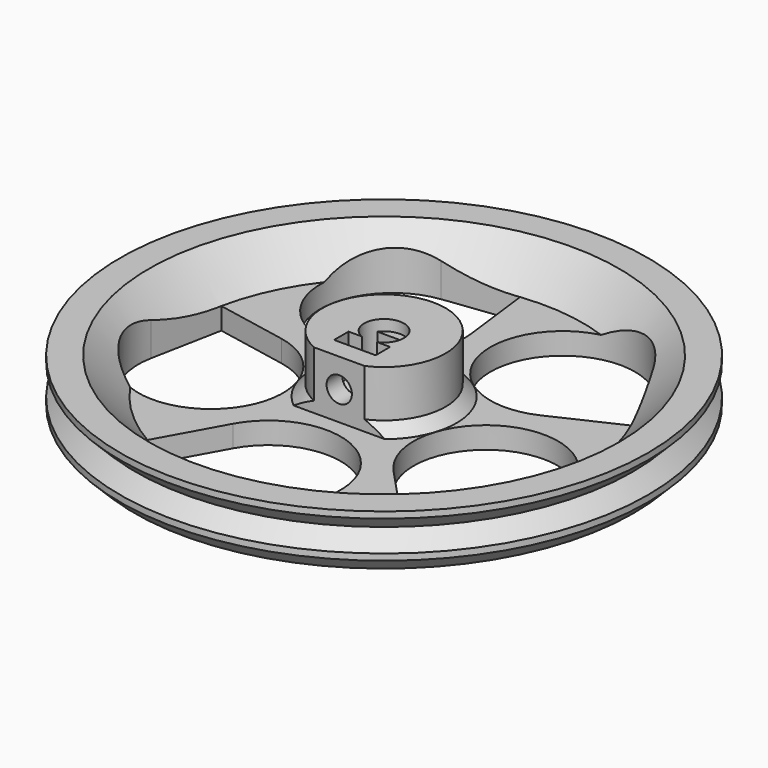
from build123d import *

# Parameters (mm, degrees)
PAD_DEPTH              = 2.5
CYLINDER001_R          = 1.75
CYLINDER001_DEPTH      = 10
CYLINDER001_ROLL_ANGLE = 90
BOX_W                  = 6
BOX_H                  = 3
BOX_DEPTH              = 7.5
SKETCH003_R            = 2.75
PAD001_DEPTH           = 8
CHAMFER_SIZE           = 1.5
POCKET_DEPTH           = 218.644926
POLARPATTERN_COUNT     = 5


with BuildPart() as captive_nut:
    # Sketch002 → Pad (new body)
    with BuildSketch(Plane.XZ):
        Polygon((-2.875, 5), (2.875, 5), (2.875, -1.659882), (0, -3.319764), (-2.875, -1.659882), align=None)
    extrude(amount=PAD_DEPTH)


with BuildPart() as captive_nut_1:
    # Clone placement: moved
    add(captive_nut.part.moved(Location((0, -3.75, 2))))


with BuildPart() as captive_nut_screw_fusion:
    # Cylinder001 → Cylinder001 (new body)
    with BuildSketch(Plane.XY):
        Circle(CYLINDER001_R)
    extrude(amount=CYLINDER001_DEPTH)


with BuildPart() as captive_nut_screw_fusion_1:
    # Cylinder001 roll: moved
    add(captive_nut_screw_fusion.part.rotate(Axis((0, 0, 0), (1, 0, 0)), CYLINDER001_ROLL_ANGLE))


with BuildPart() as captive_nut_screw_fusion_2:
    # Cylinder001 placement: moved
    add(captive_nut_screw_fusion_1.part.moved(Location((0, 0, 2))))

    # Fusion: union captive-nut
    add(captive_nut_1.part)


with BuildPart() as captive_nut_screw_fusion_3:
    # Fusion placement: moved
    add(captive_nut_screw_fusion_2.part.moved(Location((0, 1.2, 0))))


with BuildPart() as shaft_recess_cube:
    # Box → Box (new body)
    with BuildSketch(Plane(origin=(-3, 1.625, -3), x_dir=(1, 0, 0), z_dir=(0, 0, 1))):
        with Locations((3, 1.5)):
            Rectangle(BOX_W, BOX_H)
    extrude(amount=BOX_DEPTH)


with BuildPart() as wheel_r:
    # Sketch → Revolution (revolve)
    with BuildSketch(Plane.XZ):
        Polygon((0, -2), (27.5, -2), (32.5, 3), (36.5, 3), (36.5, 2.12132), (34.37868, 0), (36.5, -2.12132), (36.5, -3), (34.5, -5), (0, -5), align=None)
    revolve(axis=Axis((0, 0, 0), (0, 0, 1)))

    # Sketch003 → Pad001 (new body)
    with BuildSketch(Plane(origin=(0, 0, -2), x_dir=(-1, 0, 0), z_dir=(0, 0, 1))):
        with BuildLine():
            ThreePointArc((-3.49106, 7.75), (0, -8.5), (3.49106, 7.75))
            Line((3.49106, 7.75), (-3.49106, 7.75))
        make_face()
        Circle(SKETCH003_R, mode=Mode.SUBTRACT)
    extrude(amount=PAD001_DEPTH)

    # Fusion001: union shaft-recess-cube
    add(shaft_recess_cube.part)

    # Cut: cut captive-nut-screw-fusion
    add(captive_nut_screw_fusion_3.part, mode=Mode.SUBTRACT)

    # Chamfer
    chamfer_edges = [wheel_r.edges().sort_by_distance(p)[0] for p in [
        (0, 8.5, -2),
    ]]
    chamfer(chamfer_edges, length=CHAMFER_SIZE)

    # Sketch004 → Pocket (cut, through all)
    with BuildSketch(Plane(origin=(0, 0, -5), x_dir=(1, 0, 0), z_dir=(0, 0, -1))):
        with BuildLine():
            ThreePointArc((-8.749102, 15.157148), (9.610963, 17.237864), (-4.842852, 28.749102))
            Line((-13.591954, 23.90625), (-4.842852, 28.749102))
            Line((-8.749102, 15.157148), (-13.591954, 23.90625))
        make_face()
    pocket = extrude(amount=-POCKET_DEPTH, mode=Mode.SUBTRACT)

    # PolarPattern: Pocket ×5 about axis
    polarpattern_axis = Axis((0, 0, -5), (0, 0, -1))
    for i in range(1, POLARPATTERN_COUNT):
        add(pocket.rotate(polarpattern_axis, i * 360 / POLARPATTERN_COUNT), mode=Mode.SUBTRACT)


solid = wheel_r.part
